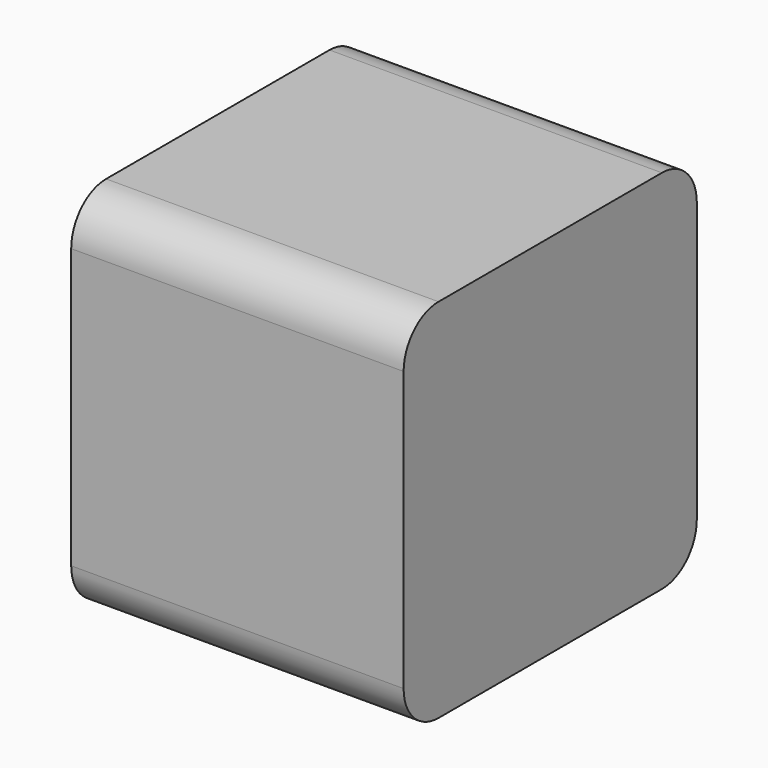
from build123d import *

# Parameters (mm, degrees)
PAD_DEPTH = 38.1


with BuildPart() as part:
    # Sketch → Pad (new body)
    with BuildSketch(Plane.YZ):
        with BuildLine():
            Line((-16, 21), (16, 21))
            ThreePointArc((21, 16), (19.535534, 19.535534), (16, 21))
            Line((21, 16), (21, -16))
            ThreePointArc((16, -21), (19.535534, -19.535534), (21, -16))
            Line((16, -21), (-16, -21))
            ThreePointArc((-21, -16), (-19.535534, -19.535534), (-16, -21))
            Line((-21, -16), (-21, 16))
            ThreePointArc((-16, 21), (-19.535534, 19.535534), (-21, 16))
        make_face()
    extrude(amount=PAD_DEPTH)


solid = part.part
